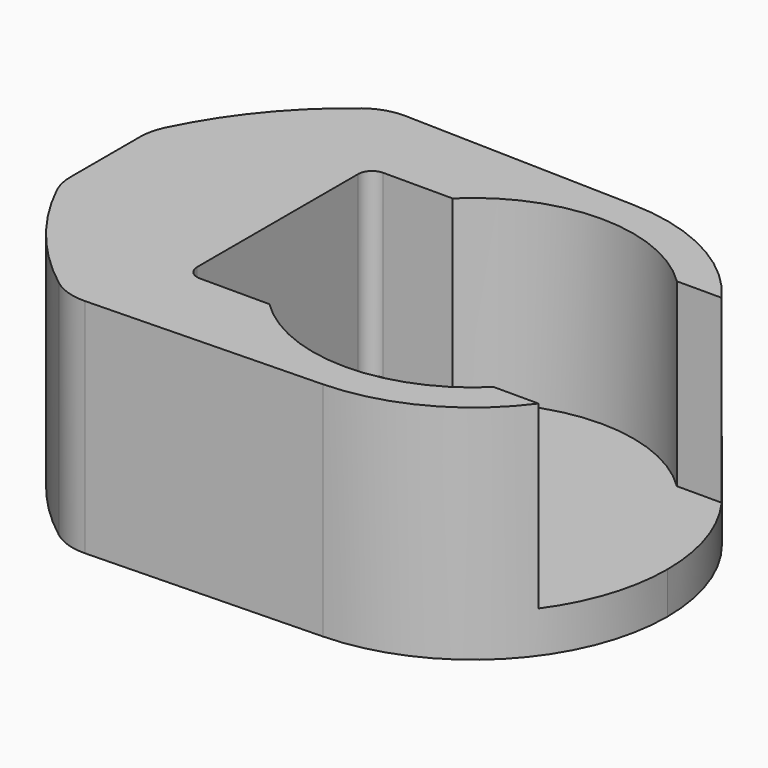
from build123d import *

# Parameters (mm, degrees)
PAD_DEPTH       = 8
POCKET_DEPTH    = 6.5
SKETCH_R        = 1.5
POCKET001_DEPTH = 8.001
FILLET_R        = 0.5


with BuildPart() as part:
    # Sketch004 (on XY_Plane of Origin) → Pad (new body)
    with BuildSketch(Plane.XY):
        with BuildLine():
            ThreePointArc((0.198755, -2.434603), (1.728484, -4.835416), (3.775997, -6.813208))
            ThreePointArc((3.775997, -6.813208), (4.37324, -7.125), (5.040127, -7.220785))
            Line((5.040127, -7.220785), (13.436073, -6.997526))
            ThreePointArc((13.436073, -6.997526), (18.265103, -4.883518), (20.25, 0))
            Line((0, 0), (20.25, 0))
            Line((0, 0), (0, -1.565397))
            ThreePointArc((0, -1.565397), (0.050322, -2.011217), (0.198755, -2.434603))
        make_face()
    pad = extrude(amount=PAD_DEPTH)

    # Mirrored: Pad across Sketch004 H_Axis
    add(pad.mirror(Plane.ZX))

    # Sketch005 (on Face5 of Mirrored) → Pocket (cut)
    with BuildSketch(Plane.XY.offset(8)):
        with BuildLine():
            Line((17.291658, -4.125), (20.291658, -4.125))
            Line((20.291658, -4.125), (20.291658, 0))
            Line((20.291658, 0), (6.208342, 0))
            Line((6.208342, -4.125), (6.208342, 0))
            Line((9.208342, -4.125), (6.208342, -4.125))
            ThreePointArc((9.208342, -4.125), (13.25, -5.775), (17.291658, -4.125))
        make_face()
    pocket = extrude(amount=-POCKET_DEPTH, mode=Mode.SUBTRACT)

    # Mirrored001: Pocket across Sketch005 H_Axis
    add(pocket.mirror(Plane(origin=(0, 0, 8), x_dir=(0, 0, 1), z_dir=(0, 1, 0))), mode=Mode.SUBTRACT)

    # Sketch (on XY_Plane of Origin) → Pocket001 (cut, through all)
    with BuildSketch(Plane.XY):
        with Locations((13.25, 0)):
            Circle(SKETCH_R)
    extrude(amount=POCKET001_DEPTH, mode=Mode.SUBTRACT)

    # Fillet
    fillet_edges = [part.edges().sort_by_distance(p)[0] for p in [
        (6.208342, 4.125, 4.75),
        (6.208342, -4.125, 4.75),
    ]]
    fillet(fillet_edges, radius=FILLET_R)


solid = part.part
